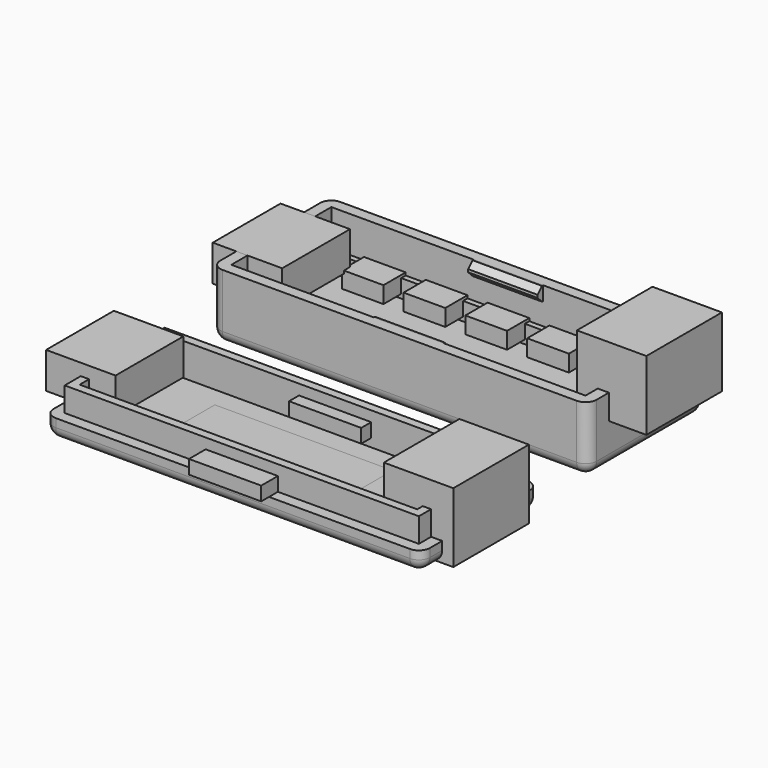
from build123d import *

# Parameters (mm, degrees)
BOX001_W        = 51
BOX001_H        = 18
BOX001_DEPTH    = 9.4
BOX_W           = 54.2
BOX_H           = 21.2
BOX_DEPTH       = 9.4
FILLET_R        = 1.6
BOX003_W        = 49.4
BOX003_H        = 16.4
BOX003_DEPTH    = 2.6
BOX002_W        = 51
BOX002_H        = 18
BOX002_DEPTH    = 2.6
BOX004_W        = 10
BOX004_H        = 1
BOX004_DEPTH    = 2
CHAMFER_SIZE    = 0.8
BOX005_W        = 10
BOX005_H        = 1
BOX005_DEPTH    = 2
CHAMFER001_SIZE = 0.8
BOX006_W        = 10
BOX006_H        = 12.2
BOX006_DEPTH    = 5.2
BOX007_W        = 10
BOX007_H        = 13.6
BOX007_DEPTH    = 10
BOX008_W        = 6
BOX008_H        = 10
BOX008_DEPTH    = 2.4
BOX009_W        = 6
BOX009_H        = 10
BOX009_DEPTH    = 2.4
BOX011_W        = 51
BOX011_H        = 18
BOX011_DEPTH    = 9.4
BOX010_W        = 54.2
BOX010_H        = 21.2
BOX010_DEPTH    = 2.8
FILLET001_R     = 1.6
BOX013_W        = 48.6
BOX013_H        = 15.6
BOX013_DEPTH    = 4.8
BOX012_W        = 51
BOX012_H        = 18
BOX012_DEPTH    = 4.7
BOX014_W        = 25.6
BOX014_H        = 9.8
BOX014_DEPTH    = 1.6
BOX015_W        = 10
BOX015_H        = 12.2
BOX015_DEPTH    = 5.2
BOX016_W        = 10
BOX016_H        = 13.6
BOX016_DEPTH    = 10
BOX017_W        = 10.4
BOX017_H        = 5
BOX017_DEPTH    = 2
BOX018_W        = 10.4
BOX018_H        = 5
BOX018_DEPTH    = 2
BOX019_W        = 6
BOX019_H        = 10
BOX019_DEPTH    = 2.4
BOX020_W        = 6
BOX020_H        = 10
BOX020_DEPTH    = 2.4
BOX021_W        = 6
BOX021_H        = 10
BOX021_DEPTH    = 2.4


with BuildPart() as unten_innen:
    # Box001 → Box001 (new body)
    with BuildSketch(Plane.XY.offset(1.6)):
        with Locations((25.5, 9)):
            Rectangle(BOX001_W, BOX001_H)
    extrude(amount=BOX001_DEPTH)


with BuildPart() as obj1:
    # Box → Box (new body)
    with BuildSketch(Plane(origin=(-1.6, -1.6, 0), x_dir=(1, 0, 0), z_dir=(0, 0, 1))):
        with Locations((27.1, 10.6)):
            Rectangle(BOX_W, BOX_H)
    extrude(amount=BOX_DEPTH)

    # Cut: cut unten_innen
    add(unten_innen.part, mode=Mode.SUBTRACT)

    # Fillet
    fillet_edges = [obj1.edges().sort_by_distance(p)[0] for p in [
        (-1.6, -1.6, 4.7),
        (-1.6, 19.6, 4.7),
        (-1.6, 9, 0),
        (25.5, -1.6, 0),
        (52.6, -1.6, 4.7),
        (25.5, 19.6, 0),
        (52.6, 19.6, 4.7),
        (52.6, 9, 0),
    ]]
    fillet(fillet_edges, radius=FILLET_R)


with BuildPart() as auflage_innen:
    # Box003 → Box003 (new body)
    with BuildSketch(Plane(origin=(0.8, 0.8, 1.6), x_dir=(1, 0, 0), z_dir=(0, 0, 1))):
        with Locations((24.7, 8.2)):
            Rectangle(BOX003_W, BOX003_H)
    extrude(amount=BOX003_DEPTH)


with BuildPart() as auflage:
    # Box002 → Box002 (new body)
    with BuildSketch(Plane.XY.offset(1.6)):
        with Locations((25.5, 9)):
            Rectangle(BOX002_W, BOX002_H)
    extrude(amount=BOX002_DEPTH)

    # Cut001: cut Auflage_innen
    add(auflage_innen.part, mode=Mode.SUBTRACT)


with BuildPart() as haken1:
    # Box004 → Box004 (new body)
    with BuildSketch(Plane(origin=(20.5, 0, 7.4), x_dir=(1, 0, 0), z_dir=(0, 0, 1))):
        with Locations((5, 0.5)):
            Rectangle(BOX004_W, BOX004_H)
    extrude(amount=BOX004_DEPTH)

    # Chamfer
    chamfer_edges = [haken1.edges().sort_by_distance(p)[0] for p in [
        (25.5, 1, 7.4),
        (25.5, 1, 9.4),
    ]]
    chamfer(chamfer_edges, length=CHAMFER_SIZE)


with BuildPart() as haken2:
    # Box005 → Box005 (new body)
    with BuildSketch(Plane(origin=(20.5, 17, 7.4), x_dir=(1, 0, 0), z_dir=(0, 0, 1))):
        with Locations((5, 0.5)):
            Rectangle(BOX005_W, BOX005_H)
    extrude(amount=BOX005_DEPTH)

    # Chamfer001
    chamfer001_edges = [haken2.edges().sort_by_distance(p)[0] for p in [
        (25.5, 17, 7.4),
        (25.5, 17, 9.4),
    ]]
    chamfer(chamfer001_edges, length=CHAMFER001_SIZE)


with BuildPart() as obj2:
    # Box006 → Box006 (new body)
    with BuildSketch(Plane(origin=(-5, 2.9, 4.2), x_dir=(1, 0, 0), z_dir=(0, 0, 1))):
        with Locations((5, 6.1)):
            Rectangle(BOX006_W, BOX006_H)
    extrude(amount=BOX006_DEPTH)


with BuildPart() as usb_buchse:
    # Box007 → Box007 (new body)
    with BuildSketch(Plane(origin=(48, 2.2, 5.8), x_dir=(1, 0, 0), z_dir=(0, 0, 1))):
        with Locations((5, 6.8)):
            Rectangle(BOX007_W, BOX007_H)
    extrude(amount=BOX007_DEPTH)


with BuildPart() as button1:
    # Box008 → Box008 (new body)
    with BuildSketch(Plane(origin=(4.7, 14, 2.2), x_dir=(1, 0, 0), z_dir=(0, 0, 1))):
        with Locations((3, 5)):
            Rectangle(BOX008_W, BOX008_H)
    extrude(amount=BOX008_DEPTH)


with BuildPart() as button2:
    # Box009 → Box009 (new body)
    with BuildSketch(Plane(origin=(13.6, 14, 2.2), x_dir=(1, 0, 0), z_dir=(0, 0, 1))):
        with Locations((3, 5)):
            Rectangle(BOX009_W, BOX009_H)
    extrude(amount=BOX009_DEPTH)


with BuildPart() as oben_innen:
    # Box011 → Box011 (new body)
    with BuildSketch(Plane(origin=(0, -30, 1.6), x_dir=(1, 0, 0), z_dir=(0, 0, 1))):
        with Locations((25.5, 9)):
            Rectangle(BOX011_W, BOX011_H)
    extrude(amount=BOX011_DEPTH)


with BuildPart() as obj3:
    # Box010 → Box010 (new body)
    with BuildSketch(Plane(origin=(-1.6, -31.6, 0), x_dir=(1, 0, 0), z_dir=(0, 0, 1))):
        with Locations((27.1, 10.6)):
            Rectangle(BOX010_W, BOX010_H)
    extrude(amount=BOX010_DEPTH)

    # Cut002: cut oben_innen
    add(oben_innen.part, mode=Mode.SUBTRACT)

    # Fillet001
    fillet001_edges = [obj3.edges().sort_by_distance(p)[0] for p in [
        (-1.6, -31.6, 1.4),
        (-1.6, -10.4, 1.4),
        (-1.6, -21, 0),
        (25.5, -31.6, 0),
        (52.6, -31.6, 1.4),
        (25.5, -10.4, 0),
        (52.6, -10.4, 1.4),
        (52.6, -21, 0),
    ]]
    fillet(fillet001_edges, radius=FILLET001_R)


with BuildPart() as rahmen_innen:
    # Box013 → Box013 (new body)
    with BuildSketch(Plane(origin=(1.2, -28.8, 1.6), x_dir=(1, 0, 0), z_dir=(0, 0, 1))):
        with Locations((24.3, 7.8)):
            Rectangle(BOX013_W, BOX013_H)
    extrude(amount=BOX013_DEPTH)


with BuildPart() as rahmen:
    # Box012 → Box012 (new body)
    with BuildSketch(Plane(origin=(0, -30, 1.6), x_dir=(1, 0, 0), z_dir=(0, 0, 1))):
        with Locations((25.5, 9)):
            Rectangle(BOX012_W, BOX012_H)
    extrude(amount=BOX012_DEPTH)

    # Cut003: cut Rahmen_innen
    add(rahmen_innen.part, mode=Mode.SUBTRACT)


with BuildPart() as oled:
    # Box014 → Box014 (new body)
    with BuildSketch(Plane(origin=(10.5, -25.9, 0), x_dir=(1, 0, 0), z_dir=(0, 0, 1))):
        with Locations((12.8, 4.9)):
            Rectangle(BOX014_W, BOX014_H)
    extrude(amount=BOX014_DEPTH)


with BuildPart() as obj4:
    # Box015 → Box015 (new body)
    with BuildSketch(Plane(origin=(-5, -27.1, 2.8), x_dir=(1, 0, 0), z_dir=(0, 0, 1))):
        with Locations((5, 6.1)):
            Rectangle(BOX015_W, BOX015_H)
    extrude(amount=BOX015_DEPTH)


with BuildPart() as usb_buchse2:
    # Box016 → Box016 (new body)
    with BuildSketch(Plane(origin=(44.2, -27.8, 0), x_dir=(1, 0, 0), z_dir=(0, 0, 1))):
        with Locations((5, 6.8)):
            Rectangle(BOX016_W, BOX016_H)
    extrude(amount=BOX016_DEPTH)


with BuildPart() as oese1:
    # Box017 → Box017 (new body)
    with BuildSketch(Plane(origin=(20.3, -33, 2.8), x_dir=(1, 0, 0), z_dir=(0, 0, 1))):
        with Locations((5.2, 2.5)):
            Rectangle(BOX017_W, BOX017_H)
    extrude(amount=BOX017_DEPTH)


with BuildPart() as oese2:
    # Box018 → Box018 (new body)
    with BuildSketch(Plane(origin=(20.3, -15, 2.8), x_dir=(1, 0, 0), z_dir=(0, 0, 1))):
        with Locations((5.2, 2.5)):
            Rectangle(BOX018_W, BOX018_H)
    extrude(amount=BOX018_DEPTH)


with BuildPart() as button3:
    # Box019 → Box019 (new body)
    with BuildSketch(Plane(origin=(22.5, 14, 2.2), x_dir=(1, 0, 0), z_dir=(0, 0, 1))):
        with Locations((3, 5)):
            Rectangle(BOX019_W, BOX019_H)
    extrude(amount=BOX019_DEPTH)


with BuildPart() as button4:
    # Box020 → Box020 (new body)
    with BuildSketch(Plane(origin=(31.4, 14, 2.2), x_dir=(1, 0, 0), z_dir=(0, 0, 1))):
        with Locations((3, 5)):
            Rectangle(BOX020_W, BOX020_H)
    extrude(amount=BOX020_DEPTH)


with BuildPart() as button5:
    # Box021 → Box021 (new body)
    with BuildSketch(Plane(origin=(40.3, 14, 2.2), x_dir=(1, 0, 0), z_dir=(0, 0, 1))):
        with Locations((3, 5)):
            Rectangle(BOX021_W, BOX021_H)
    extrude(amount=BOX021_DEPTH)


solid = Compound([obj1.part, auflage.part, haken1.part, haken2.part, obj2.part, usb_buchse.part, button1.part, button2.part, obj3.part, rahmen.part, oled.part, obj4.part, usb_buchse2.part, oese1.part, oese2.part, button3.part, button4.part, button5.part])
